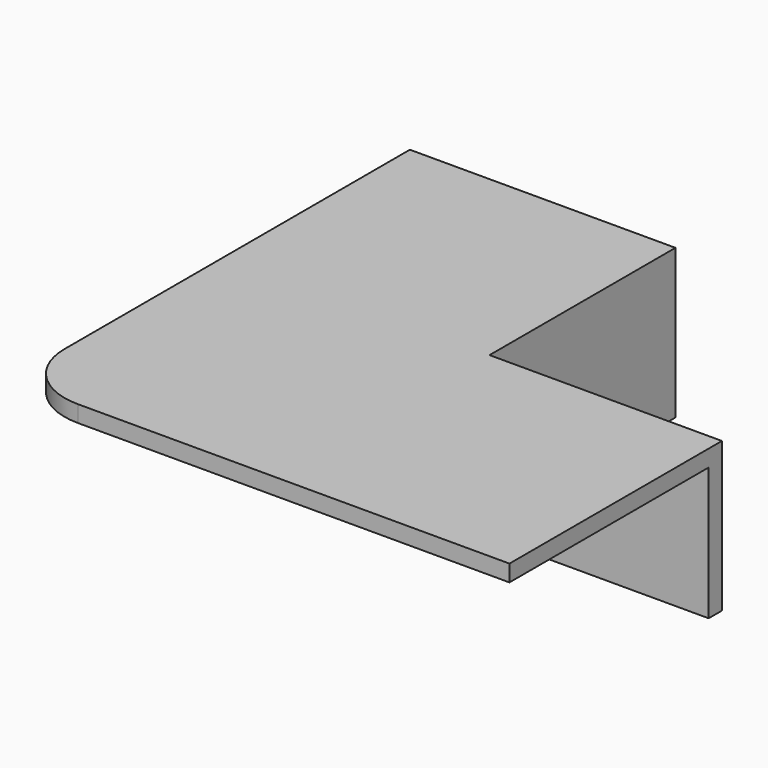
from build123d import *

# Parameters (mm, degrees)
F1_DEPTH = 5
F3_DEPTH = 40


with BuildPart() as f1:
    # F0 (on Top) → F1 (new body)
    with BuildSketch(Plane.XY):
        with BuildLine():
            ThreePointArc((0, 20), (5.857864, 5.857864), (20, 0))
            Line((20, 0), (150, 0))
            Line((150, 0), (150, 80))
            Line((150, 80), (80, 80))
            Line((80, 80), (80, 150))
            Line((80, 150), (0, 150))
            Line((0, 150), (0, 20))
        make_face()
    extrude(amount=F1_DEPTH)

    # F2 (on face) → F3 (join)
    with BuildSketch(Plane(origin=(0, 0, 0), x_dir=(1, 0, 0), z_dir=(0, 0, -1))):
        Polygon((80, -80), (150, -80), (150, -75), (75, -75), (75, -150), (80, -150), align=None)
    extrude(amount=F3_DEPTH)


solid = f1.part
